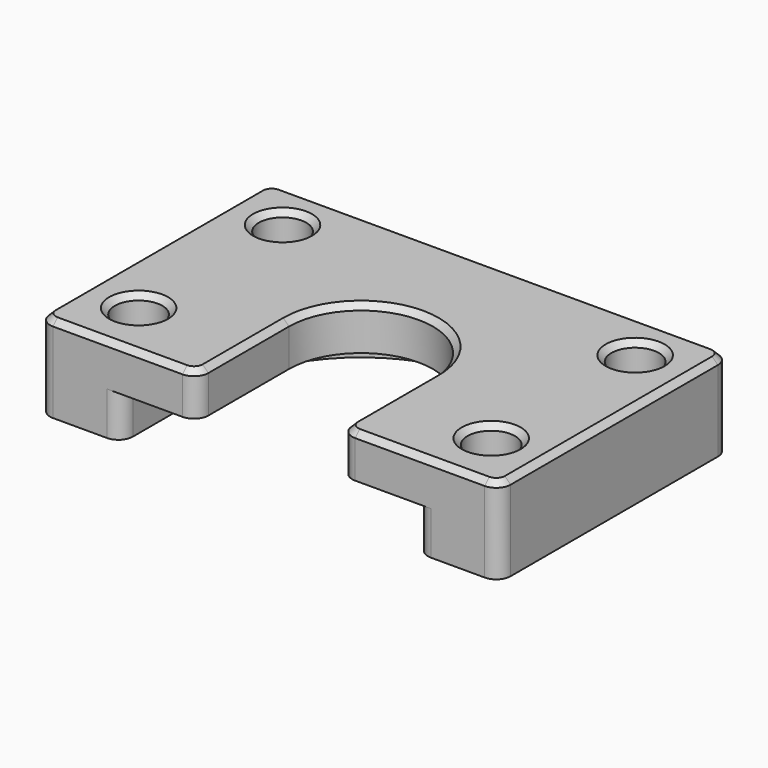
from build123d import *

# Parameters (mm, degrees)
SKETCH_W        = 32
SKETCH_H        = 20
PAD_DEPTH       = 6
POCKET_DEPTH    = 3
POCKET001_DEPTH = 3.001
SKETCH003_R     = 1.65
POCKET002_DEPTH = 6.001
FILLET_R        = 1
CHAMFER_SIZE    = 0.4


with BuildPart() as part:
    # Sketch → Pad (new body)
    with BuildSketch(Plane.XY):
        with Locations((0, -10)):
            Rectangle(SKETCH_W, SKETCH_H)
    extrude(amount=PAD_DEPTH)

    # Sketch001 (on Face5 of Pad) → Pocket (cut)
    with BuildSketch(Plane(origin=(0, 0, 0), x_dir=(1, 0, 0), z_dir=(0, 0, -1))):
        with BuildLine():
            ThreePointArc((-10.25, 12), (0, 1.75), (10.25, 12))
            Line((10.25, 20), (10.25, 12))
            Line((-10.25, 20), (10.25, 20))
            Line((-10.25, 20), (-10.25, 12))
        make_face()
    extrude(amount=-POCKET_DEPTH, mode=Mode.SUBTRACT)

    # Sketch002 (on Face10 of Pocket) → Pocket001 (cut, through all)
    with BuildSketch(Plane(origin=(0, 0, 3), x_dir=(1, 0, 0), z_dir=(0, 0, -1))):
        with BuildLine():
            ThreePointArc((-5, 12), (0, 7), (5, 12))
            Line((5, 20), (5, 12))
            Line((-5, 20), (5, 20))
            Line((-5, 12), (-5, 20))
        make_face()
    extrude(amount=-POCKET001_DEPTH, mode=Mode.SUBTRACT)

    # Sketch003 (on Face4 of Pocket001) → Pocket002 (cut, through all)
    with BuildSketch(Plane(origin=(0, 0, 0), x_dir=(1, 0, 0), z_dir=(0, 0, -1))):
        with Locations((-12.25, 16)):
            Circle(SKETCH003_R)
        with Locations((12.25, 16)):
            Circle(SKETCH003_R)
        with Locations((-12.25, 3.5)):
            Circle(SKETCH003_R)
        with Locations((12.25, 3.5)):
            Circle(SKETCH003_R)
    extrude(amount=-POCKET002_DEPTH, mode=Mode.SUBTRACT)

    # Fillet
    fillet_edges = [part.edges().sort_by_distance(p)[0] for p in [
        (-16, -20, 3),
        (-16, 0, 3),
        (16, 0, 3),
        (16, -20, 3),
        (-5, -20, 4.5),
        (5, -20, 4.5),
        (10.25, -20, 1.5),
        (-10.25, -20, 1.5),
    ]]
    fillet(fillet_edges, radius=FILLET_R)

    # Chamfer
    chamfer_edges = [part.edges().sort_by_distance(p)[0] for p in [
        (0, 0, 6),
        (-15.707107, -0.292893, 6),
        (15.707107, -0.292893, 6),
        (-16, -10, 6),
        (16, -10, 6),
        (-15.707107, -19.707107, 6),
        (15.707107, -19.707107, 6),
        (-10.5, -20, 6),
        (10.5, -20, 6),
        (-5.292893, -19.707107, 6),
        (5.292893, -19.707107, 6),
        (-5, -15.5, 6),
        (5, -15.5, 6),
        (0, -7, 6),
        (-13.9, -16, 6),
        (10.6, -16, 6),
        (-13.9, -3.5, 6),
        (10.6, -3.5, 6),
    ]]
    chamfer(chamfer_edges, length=CHAMFER_SIZE)


with BuildPart() as part_1:
    # Body003 placement: moved
    add(part.part.moved(Location((0, -17.5, 15.5))))


solid = part_1.part
